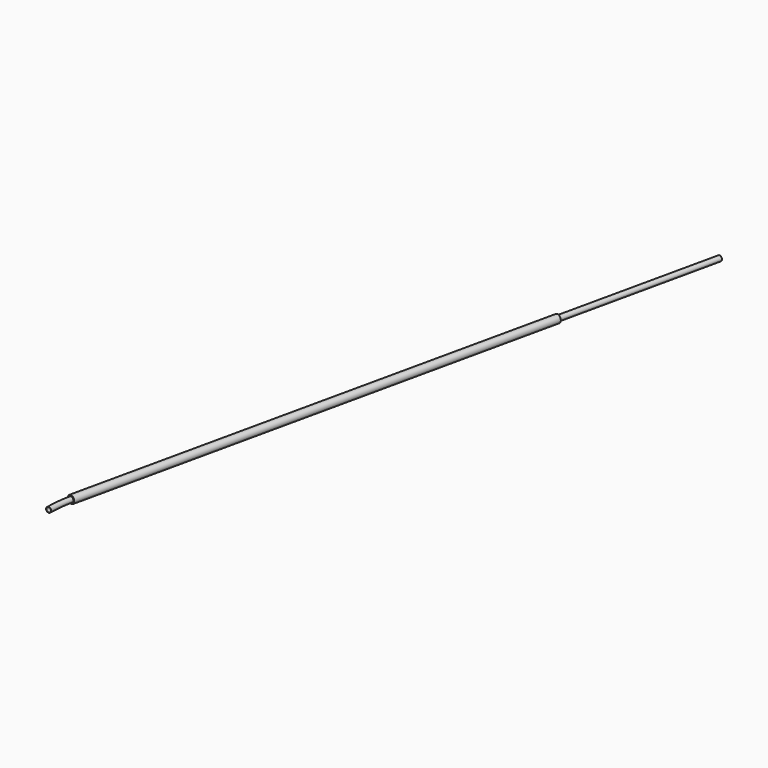
from build123d import *

# Parameters (mm, degrees)
F2_R      = 0.795
F2_R_2    = 0.7
F6_R      = 1.2
F6_R_2    = 0.9
F7_DEPTH  = 150
F11_ANGLE = 12.5
F12_ANGLE = 180


with BuildPart() as f4:
    # F4: sweep along a path in F3
    with BuildLine(Plane.XY) as f4_path:
        Line((0, 0), (0, -200))
        ThreePointArc((0, -200), (-0.2078175018, -203.8084166015), (-0.8288021149, -207.5716071674))
    # F2 (on Front) → F4 (sweep)
    with BuildSketch(Plane.XZ):
        Circle(F2_R)
        Circle(F2_R_2, mode=Mode.SUBTRACT)
    sweep(path=f4_path.line)


with BuildPart() as f7:
    # F6 (on offset) → F7 (new body)
    with BuildSketch(Plane(origin=(0, -50, 0), x_dir=(-1, 0, 0), z_dir=(0, 1, 0))):
        Circle(F6_R)
        Circle(F6_R_2, mode=Mode.SUBTRACT)
    extrude(amount=-F7_DEPTH)


with BuildPart() as f7_1:
    # F10: moved
    add(f7.part.moved(Location((0, 4.7, 0))))


with BuildPart() as f4_1:
    # F10: moved
    add(f4.part.moved(Location((0, 4.7, 0))))


with BuildPart() as f7_2:
    # F11: moved
    add(f7_1.part.rotate(Axis((0, -100, 4.532628227), (0, 0, 1)), F11_ANGLE))


with BuildPart() as f4_2:
    # F11: moved
    add(f4_1.part.rotate(Axis((0, -100, 4.532628227), (0, 0, 1)), F11_ANGLE))


with BuildPart() as f7_3:
    # F12: moved
    add(f7_2.part.rotate(Axis((0, -100, 0), (0, -1, 0)), F12_ANGLE))


with BuildPart() as f4_3:
    # F12: moved
    add(f4_2.part.rotate(Axis((0, -100, 0), (0, -1, 0)), F12_ANGLE))


solid = Compound([f7_3.part, f4_3.part])
